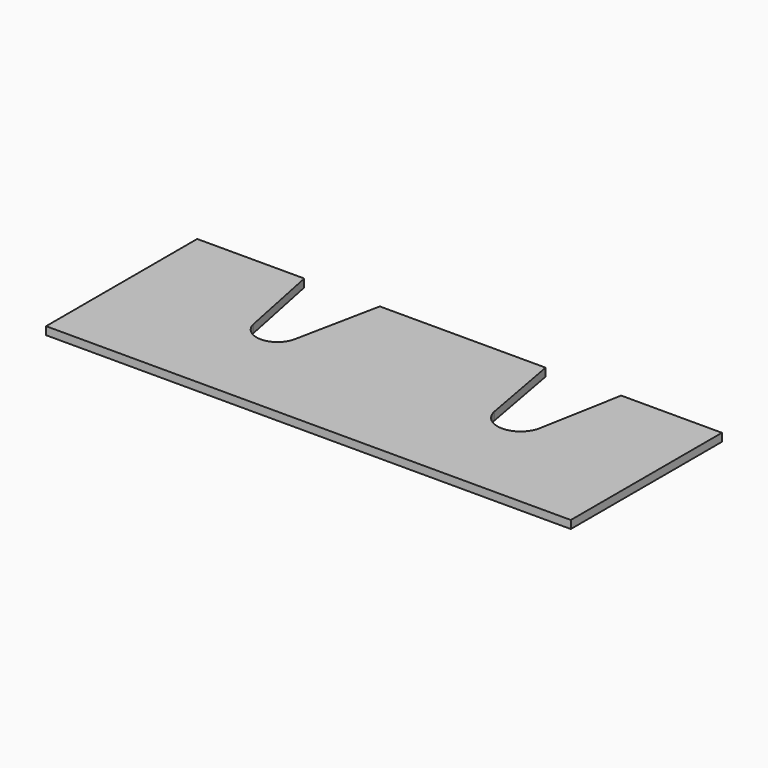
from build123d import *

# Parameters (mm, degrees)
F0_W     = 1250
F0_H     = 450
F1_DEPTH = 19
F3_DEPTH = 19
F5_DEPTH = 19
F7_D     = 10
F7_DEPTH = 13
F7_TIP   = 3.0043030951


with BuildPart() as f1:
    # F0 (on Top) → F1 (new body)
    with BuildSketch(Plane.XY):
        Rectangle(F0_W, F0_H)
    extrude(amount=F1_DEPTH)

    # F2 (on face) → F3 (cut, through all)
    with BuildSketch(Plane.XY.offset(19)):
        with BuildLine():
            Line((-190, 225), (-370, 225))
            Line((-370, 225), (-329.0003629481, 23.0519132014))
            ThreePointArc((-329.0003629481, 23.0519132014), (-280, -17), (-230.9996370519, 23.0519132014))
            Line((-230.9996370519, 23.0519132014), (-190, 225))
        make_face()
    extrude(amount=-F3_DEPTH, mode=Mode.SUBTRACT)

    # F4 (on face) → F5 (cut, through all)
    with BuildSketch(Plane.XY.offset(19)):
        with BuildLine():
            Line((385, 225), (205, 225))
            Line((205, 225), (240.8919167139, 28.1351470815))
            ThreePointArc((240.8919167139, 28.1351470815), (295, -17), (349.1080832861, 28.1351470815))
            Line((349.1080832861, 28.1351470815), (385, 225))
        make_face()
    extrude(amount=-F5_DEPTH, mode=Mode.SUBTRACT)

    # F7
    with Locations(Plane(origin=(0, 0, 0), x_dir=(1, 0, 0), z_dir=(0, 0, -1))):
        with Locations((-613, 150), (-175, 150), (175, 150), (613, 150), (-613, -150), (-175, -150), (175, -150), (613, -150)):
            Hole(F7_D / 2, depth=F7_DEPTH)
            with Locations((0, 0, -(F7_DEPTH + F7_TIP / 2))):  # 118° drill point
                Cone(0, F7_D / 2, F7_TIP, mode=Mode.SUBTRACT)


solid = f1.part
